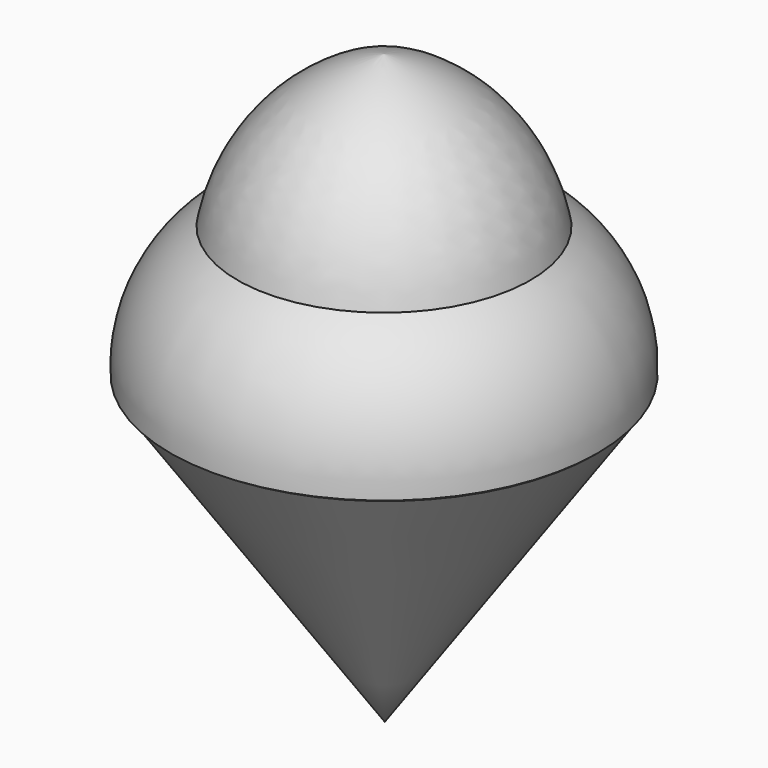
from build123d import *


with BuildPart() as f1:
    # F0 (on Front) → F1 (revolve)
    with BuildSketch(Plane.XZ):
        Polygon((0.128041, -24.142823), (34.664731, 25.647573), (0.128041, 25.647573), align=None)
    revolve(axis=Axis((0.128041, 0, 0.752375), (0, 0, -1)))


with BuildPart() as f4:
    # F2 (on Right) → F4 (revolve)
    with BuildSketch(Plane.YZ):
        with BuildLine():
            ThreePointArc((0, 48.560666), (12.162738, 51.110517), (23.98188, 47.27101))
            ThreePointArc((23.98188, 47.27101), (15.663703, 63.230489), (0, 72.093077))
            Line((0, 72.093077), (0, 48.560666))
        make_face()
        with BuildLine():
            Line((0, 25.919516), (34.977672, 25.919516))
            ThreePointArc((34.977672, 25.919516), (32.324055, 38.060036), (23.98188, 47.27101))
            ThreePointArc((23.98188, 47.27101), (12.162738, 51.110517), (0, 48.560666))
            Line((0, 48.560666), (0, 25.919516))
        make_face()
    revolve(axis=Axis((0, 0, -42.533901), (0, 0, -1)))


solid = Compound([f1.part, f4.part])
